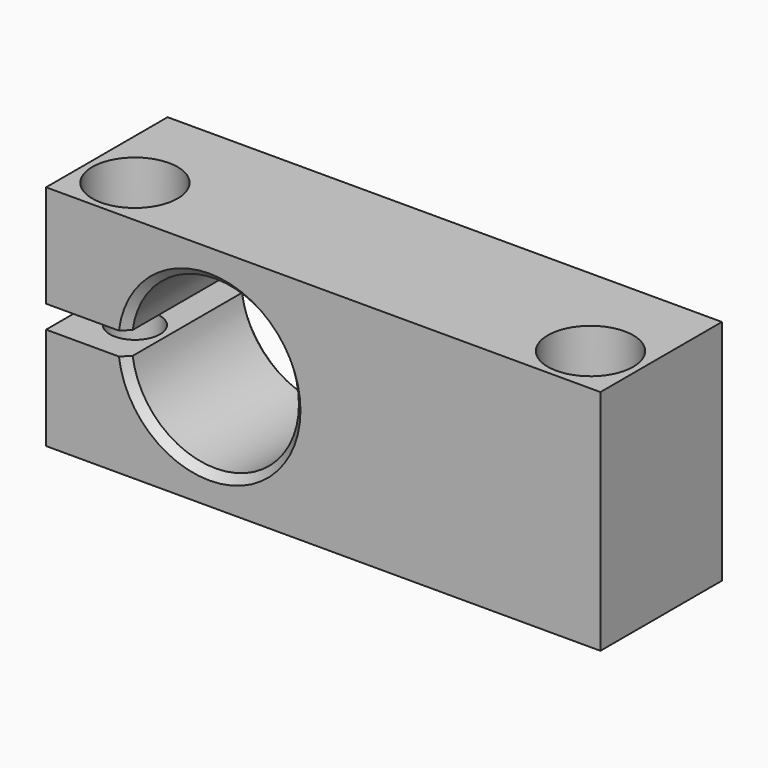
from build123d import *

# Parameters (mm, degrees)
F1_DEPTH       = 20
F3_D           = 6.6
F3_CBORE_D     = 11.25
F3_CBORE_DEPTH = 6
F4_SIZE        = 1


with BuildPart() as f1:
    # F0 (on Front) → F1 (new body)
    with BuildSketch(Plane.XZ):
        with BuildLine():
            Line((36.5, 15), (-36.5, 15))
            Line((-36.5, 15), (-36.5, 1.5))
            Line((-36.5, 1.5), (-25.8972473589, 1.5))
            ThreePointArc((-25.8972473589, 1.5), (-14.2482423753, 10.9742817748), (-4, 0))
            ThreePointArc((-4, 0), (-14.2482423753, -10.9742817748), (-25.8972473589, -1.5))
            Line((-25.8972473589, -1.5), (-36.5, -1.5))
            Line((-36.5, -1.5), (-36.5, -15))
            Line((-36.5, -15), (36.5, -15))
            Line((36.5, -15), (36.5, 15))
        make_face()
    extrude(amount=F1_DEPTH)

    # F3 (through all)
    with Locations(Plane.XY.offset(15)):
        with Locations((-30, -13.5), (30, -13.5)):
            CounterBoreHole(F3_D / 2, F3_CBORE_D / 2, F3_CBORE_DEPTH)

    # F4
    f4_edges = [f1.edges().sort_by_distance(p)[0] for p in [
        (-4, -20, 0),
        (-4, 0, 0),
    ]]
    chamfer(f4_edges, length=F4_SIZE)


solid = f1.part
